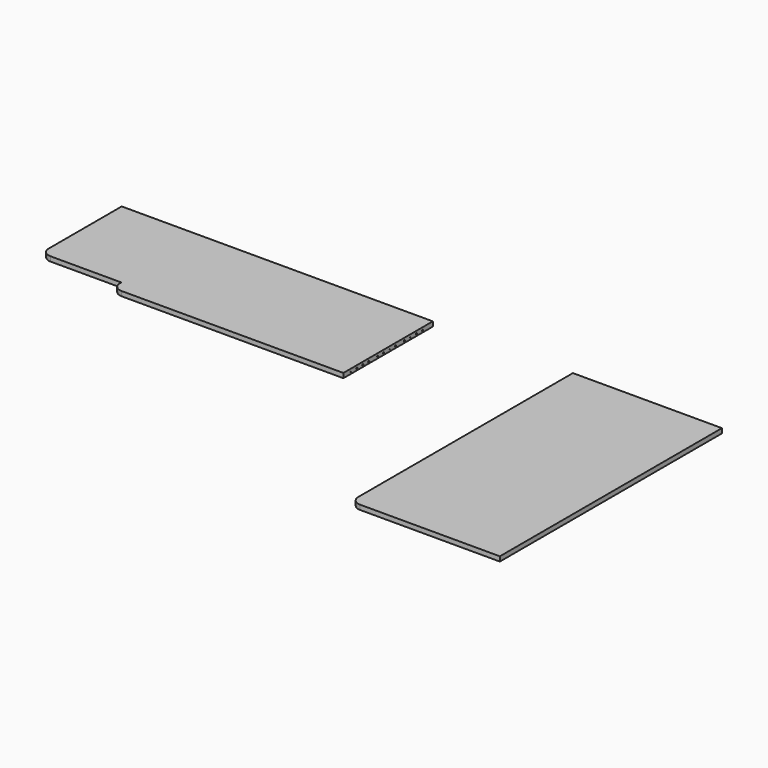
from build123d import *

# Parameters (mm, degrees)
F2_DEPTH  = 25
F3_DEPTH  = 25
F5_D      = 8
F5_DEPTH  = 15
F5_TIP    = 2.4034424761
F6_D      = 5
F6_DEPTH  = 10
F6_TIP    = 1.5021515476
F8_D      = 8
F8_DEPTH  = 20
F8_TIP    = 2.4034424761
F9_D      = 4
F9_DEPTH  = 20
F9_TIP    = 1.2017212381
F10_D     = 8
F10_DEPTH = 20
F10_START = 751.9641149
F10_TIP   = 2.4034424761
F11_D     = 4
F11_DEPTH = 20
F11_START = 751.9641149
F11_TIP   = 1.2017212381
F13_D     = 4
F13_DEPTH = 20
F13_TIP   = 1.2017212381
F14_D     = 8
F14_DEPTH = 20
F14_TIP   = 2.4034424761


with BuildPart() as f2:
    # F0 (on Top) → F2 (new body)
    with BuildSketch(Plane.XY):
        with BuildLine():
            Line((-671.5850967169, 0), (-2341.5850967169, 0))
            Line((-2341.5850967169, 0), (-2341.5850967169, -490))
            ThreePointArc((-2341.5850967169, -490), (-2326.9404357762, -525.3553390593), (-2291.5850967169, -540))
            Line((-2291.5850967169, -540), (-1911.5850967169, -540))
            Line((-1911.5850967169, -540), (-1911.5850967169, -550))
            ThreePointArc((-1911.5850967169, -550), (-1896.9404357762, -585.3553390593), (-1861.5850967169, -600))
            Line((-1861.5850967169, -600), (-671.5850967169, -600))
            Line((-671.5850967169, -600), (-671.5850967169, 0))
        make_face()
    extrude(amount=F2_DEPTH)

    # F5
    with Locations(Plane(origin=(0, 0, 0), x_dir=(1, 0, 0), z_dir=(0, 0, -1))):
        with Locations((-2232.5850967169, 490), (-2232.5850967169, 410), (-1800.5850967169, 490), (-1800.5850967169, 410), (-1800.5850967169, 130), (-1800.5850967169, 50), (-2232.5850967169, 50), (-2232.5850967169, 130), (-1112.5850967169, 490), (-1112.5850967169, 410), (-1112.5850967169, 130), (-1112.5850967169, 50), (-680.5850967169, 50), (-680.5850967169, 130), (-680.5850967169, 410), (-680.5850967169, 490)):
            Hole(F5_D / 2, depth=F5_DEPTH)
            with Locations((0, 0, -(F5_DEPTH + F5_TIP / 2))):  # 118° drill point
                Cone(0, F5_D / 2, F5_TIP, mode=Mode.SUBTRACT)

    # F6
    with Locations(Plane(origin=(0, 0, 0), x_dir=(1, 0, 0), z_dir=(0, 0, -1))):
        with Locations((-2232.5850967169, 450), (-1800.5850967169, 450), (-1800.5850967169, 90), (-2232.5850967169, 90), (-1112.5850967169, 450), (-680.5850967169, 450), (-680.5850967169, 90), (-1112.5850967169, 90)):
            Hole(F6_D / 2, depth=F6_DEPTH)
            with Locations((0, 0, -(F6_DEPTH + F6_TIP / 2))):  # 118° drill point
                Cone(0, F6_D / 2, F6_TIP, mode=Mode.SUBTRACT)

    # F8
    with Locations(Plane.YZ.offset(-671.5850967169)):
        with Locations((-510, 10), (-470, 10), (-430, 10), (-370, 10), (-330, 10), (-250, 10), (-190, 10), (-110, 10), (-70, 10)):
            Hole(F8_D / 2, depth=F8_DEPTH)
            with Locations((0, 0, -(F8_DEPTH + F8_TIP / 2))):  # 118° drill point
                Cone(0, F8_D / 2, F8_TIP, mode=Mode.SUBTRACT)

    # F9
    with Locations(Plane.YZ.offset(-671.5850967169)):
        with Locations((-150, 10), (-290, 10), (-550, 10)):
            Hole(F9_D / 2, depth=F9_DEPTH)
            with Locations((0, 0, -(F9_DEPTH + F9_TIP / 2))):  # 118° drill point
                Cone(0, F9_D / 2, F9_TIP, mode=Mode.SUBTRACT)


with BuildPart() as f3:
    # F1 (on Top) → F3 (new body)
    with BuildSketch(Plane.XY):
        with BuildLine():
            Line((880.3790181875, 0), (80.3790181875, 0))
            Line((80.3790181875, 0), (80.3790181875, -1440))
            ThreePointArc((80.3790181875, -1440), (95.0236791282, -1475.3553390593), (130.3790181875, -1490))
            Line((130.3790181875, -1490), (880.3790181875, -1490))
            Line((880.3790181875, -1490), (880.3790181875, 0))
        make_face()
    extrude(amount=F3_DEPTH)

    # F10
    # its depths count from where the whole tool has entered the part; down to there all is cleared
    with Locations(Plane(origin=(-671.5850967169, 0, 0), x_dir=(0, 1, 0), z_dir=(-1, 0, 0))):
        with Locations((-510, -10), (-470, -10), (-430, -10), (-370, -10), (-330, -10), (-250, -10), (-190, -10), (-110, -10), (-70, -10)):
            Hole(F10_D / 2, depth=F10_START)
    with Locations(Plane(origin=(-671.5850967169, 0, 0), x_dir=(0, 1, 0), z_dir=(-1, 0, 0)).offset(-F10_START)):
        with Locations((-510, -10), (-470, -10), (-430, -10), (-370, -10), (-330, -10), (-250, -10), (-190, -10), (-110, -10), (-70, -10)):
            Hole(F10_D / 2, depth=F10_DEPTH)
            with Locations((0, 0, -(F10_DEPTH + F10_TIP / 2))):  # 118° drill point
                Cone(0, F10_D / 2, F10_TIP, mode=Mode.SUBTRACT)

    # F11
    # its depths count from where the whole tool has entered the part; down to there all is cleared
    with Locations(Plane(origin=(-671.5850967169, 0, 0), x_dir=(0, 1, 0), z_dir=(-1, 0, 0))):
        with Locations((-290, -10), (-150, -10), (-550, -10)):
            Hole(F11_D / 2, depth=F11_START)
    with Locations(Plane(origin=(-671.5850967169, 0, 0), x_dir=(0, 1, 0), z_dir=(-1, 0, 0)).offset(-F11_START)):
        with Locations((-290, -10), (-150, -10), (-550, -10)):
            Hole(F11_D / 2, depth=F11_DEPTH)
            with Locations((0, 0, -(F11_DEPTH + F11_TIP / 2))):  # 118° drill point
                Cone(0, F11_D / 2, F11_TIP, mode=Mode.SUBTRACT)

    # F13
    with Locations(Plane(origin=(0, 0, 0), x_dir=(1, 0, 0), z_dir=(0, 0, -1))):
        with Locations((750.3790181875, 1391), (520.3790181875, 1391), (290.3790181875, 1391), (290.3790181875, 29), (520.3790181875, 29), (750.3790181875, 29)):
            Hole(F13_D / 2, depth=F13_DEPTH)
            with Locations((0, 0, -(F13_DEPTH + F13_TIP / 2))):  # 118° drill point
                Cone(0, F13_D / 2, F13_TIP, mode=Mode.SUBTRACT)

    # F14
    with Locations(Plane(origin=(0, 0, 0), x_dir=(1, 0, 0), z_dir=(0, 0, -1))):
        with Locations((800.3790181875, 1391), (670.3790181875, 1391), (590.3790181875, 1391), (450.3790181875, 1391), (370.3790181875, 1391), (240.3790181875, 1391), (240.3790181875, 29), (370.3790181875, 29), (450.3790181875, 29), (590.3790181875, 29), (670.3790181875, 29), (800.3790181875, 29)):
            Hole(F14_D / 2, depth=F14_DEPTH)
            with Locations((0, 0, -(F14_DEPTH + F14_TIP / 2))):  # 118° drill point
                Cone(0, F14_D / 2, F14_TIP, mode=Mode.SUBTRACT)


solid = Compound([f2.part, f3.part])
